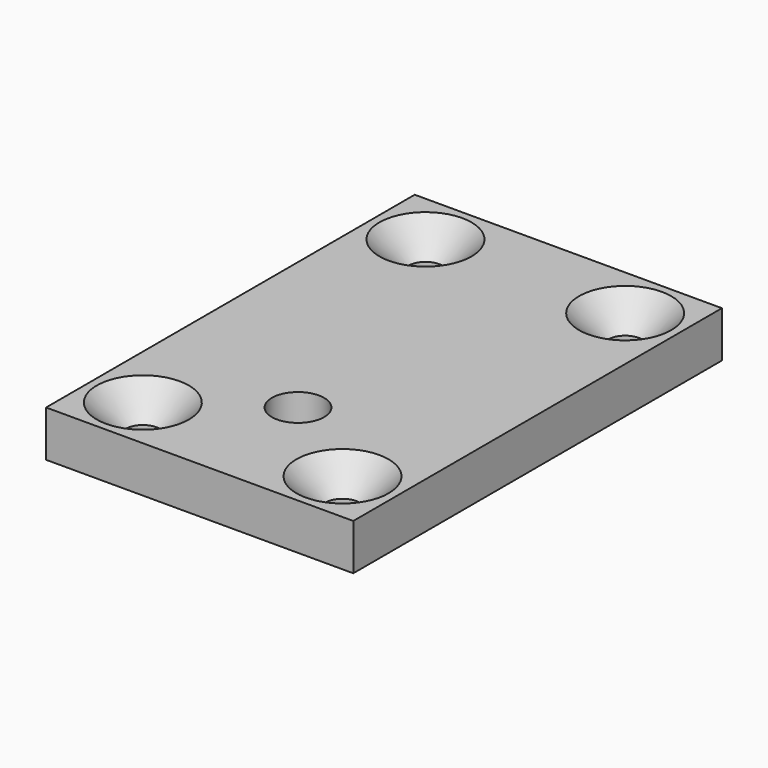
from build123d import *

# Parameters (mm, degrees)
F0_W     = 40
F0_H     = 60
F0_R     = 2.25
F0_R_2   = 3.4
F1_DEPTH = 6
F2_SIZE2 = 3.75
F2_SIZE  = 3.75


with BuildPart() as f1:
    # F0 (on Top) → F1 (new body)
    with BuildSketch(Plane.XY):
        with Locations((20, 30)):
            Rectangle(F0_W, F0_H)
        with Locations((7, 7)):
            Circle(F0_R, mode=Mode.SUBTRACT)
        with Locations((33, 7)):
            Circle(F0_R, mode=Mode.SUBTRACT)
        with Locations((20, 16)):
            Circle(F0_R_2, mode=Mode.SUBTRACT)
        with Locations((7, 53)):
            Circle(F0_R, mode=Mode.SUBTRACT)
        with Locations((33, 53)):
            Circle(F0_R, mode=Mode.SUBTRACT)
    extrude(amount=F1_DEPTH)

    # F2
    f2_edges = [f1.edges().sort_by_distance(p)[0] for p in [
        (30.75, 7, 6),
        (4.75, 7, 6),
        (4.75, 53, 6),
        (30.75, 53, 6),
    ]]
    chamfer(f2_edges, length=F2_SIZE, length2=F2_SIZE2)


solid = f1.part
